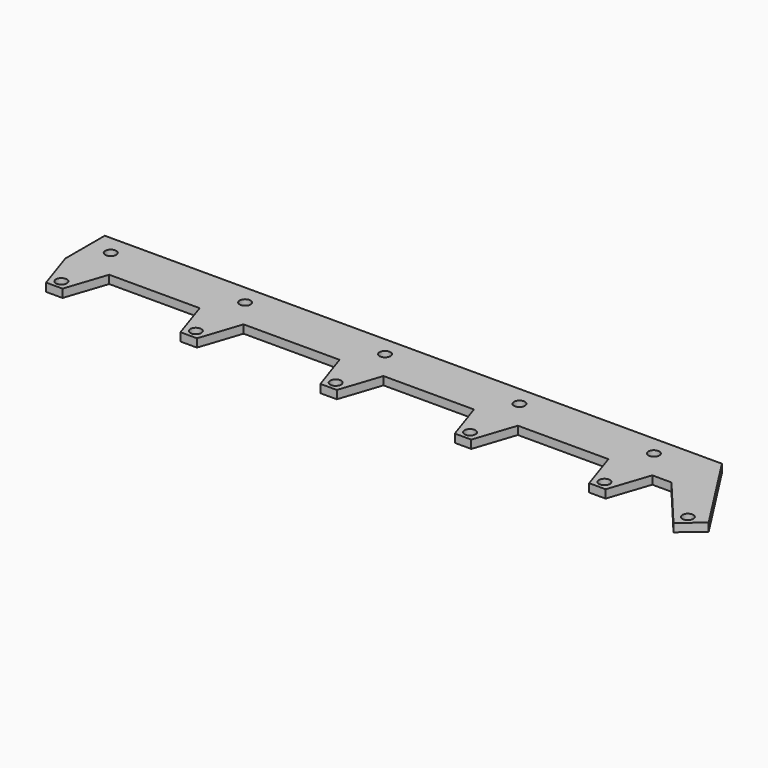
from build123d import *

# Parameters (mm, degrees)
CYLINDER007_R     = 2
CYLINDER007_DEPTH = 10
CYLINDER008_R     = 2
CYLINDER008_DEPTH = 10
CYLINDER009_R     = 2
CYLINDER009_DEPTH = 10
CYLINDER010_R     = 2
CYLINDER010_DEPTH = 10
CYLINDER006_R     = 2
CYLINDER006_DEPTH = 10
CYLINDER001_R     = 2
CYLINDER001_DEPTH = 10
CYLINDER005_R     = 2
CYLINDER005_DEPTH = 10
CYLINDER004_R     = 2
CYLINDER004_DEPTH = 10
CYLINDER003_R     = 2
CYLINDER003_DEPTH = 10
CYLINDER002_R     = 2
CYLINDER002_DEPTH = 10
CYLINDER_R        = 2
CYLINDER_DEPTH    = 10
PAD_DEPTH         = 3


with BuildPart() as cylinder007:
    # Cylinder007 → Cylinder007 (new body)
    with BuildSketch(Plane(origin=(117.5, 3.5, -3), x_dir=(1, 0, 0), z_dir=(0, 0, 1))):
        Circle(CYLINDER007_R)
    extrude(amount=CYLINDER007_DEPTH)


with BuildPart() as cylinder008:
    # Cylinder008 → Cylinder008 (new body)
    with BuildSketch(Plane(origin=(68.5, 3.5, -3), x_dir=(1, 0, 0), z_dir=(0, 0, 1))):
        Circle(CYLINDER008_R)
    extrude(amount=CYLINDER008_DEPTH)


with BuildPart() as cylinder009:
    # Cylinder009 → Cylinder009 (new body)
    with BuildSketch(Plane(origin=(17.5, 3.5, -3), x_dir=(1, 0, 0), z_dir=(0, 0, 1))):
        Circle(CYLINDER009_R)
    extrude(amount=CYLINDER009_DEPTH)


with BuildPart() as cylinder010:
    # Cylinder010 → Cylinder010 (new body)
    with BuildSketch(Plane(origin=(-31.5, 3.5, -3), x_dir=(1, 0, 0), z_dir=(0, 0, 1))):
        Circle(CYLINDER010_R)
    extrude(amount=CYLINDER010_DEPTH)


with BuildPart() as cylinder006:
    # Cylinder006 → Cylinder006 (new body)
    with BuildSketch(Plane(origin=(166.5, 3.5, -3), x_dir=(1, 0, 0), z_dir=(0, 0, 1))):
        Circle(CYLINDER006_R)
    extrude(amount=CYLINDER006_DEPTH)


with BuildPart() as cylinder001:
    # Cylinder001 → Cylinder001 (new body)
    with BuildSketch(Plane(origin=(166.5, -19, -3), x_dir=(1, 0, 0), z_dir=(0, 0, 1))):
        Circle(CYLINDER001_R)
    extrude(amount=CYLINDER001_DEPTH)


with BuildPart() as cylinder005:
    # Cylinder005 → Cylinder005 (new body)
    with BuildSketch(Plane(origin=(198.5, -21, -3), x_dir=(1, 0, 0), z_dir=(0, 0, 1))):
        Circle(CYLINDER005_R)
    extrude(amount=CYLINDER005_DEPTH)


with BuildPart() as cylinder004:
    # Cylinder004 → Cylinder004 (new body)
    with BuildSketch(Plane(origin=(-31.5, -19, -3), x_dir=(1, 0, 0), z_dir=(0, 0, 1))):
        Circle(CYLINDER004_R)
    extrude(amount=CYLINDER004_DEPTH)


with BuildPart() as cylinder003:
    # Cylinder003 → Cylinder003 (new body)
    with BuildSketch(Plane(origin=(68.5, -19, -3), x_dir=(1, 0, 0), z_dir=(0, 0, 1))):
        Circle(CYLINDER003_R)
    extrude(amount=CYLINDER003_DEPTH)


with BuildPart() as cylinder002:
    # Cylinder002 → Cylinder002 (new body)
    with BuildSketch(Plane(origin=(117.5, -19, -3), x_dir=(1, 0, 0), z_dir=(0, 0, 1))):
        Circle(CYLINDER002_R)
    extrude(amount=CYLINDER002_DEPTH)


with BuildPart() as cylinder:
    # Cylinder → Cylinder (new body)
    with BuildSketch(Plane(origin=(17.5, -19, -3), x_dir=(1, 0, 0), z_dir=(0, 0, 1))):
        Circle(CYLINDER_R)
    extrude(amount=CYLINDER_DEPTH)


with BuildPart() as cut010:
    # Sketch → Pad (new body)
    with BuildSketch(Plane.XY):
        Polygon((-39.423556, 10.687065), (185.576444, 10.687065), (205.306578, -20.03617), (197.646134, -26.464046), (181.576444, -7.312935), (174.576444, -7.312935), (169.576444, -22.312935), (163.576444, -22.312935), (158.576444, -7.312935), (125.576444, -7.312935), (120.576444, -22.312935), (114.576444, -22.312935), (109.576444, -7.312935), (76.576444, -7.312935), (71.576444, -22.312935), (65.576444, -22.312935), (60.576444, -7.312935), (25.576444, -7.312935), (20.576444, -22.312935), (14.576444, -22.312935), (9.576444, -7.312935), (-23.423556, -7.312935), (-28.423556, -22.312935), (-34.423556, -22.312935), (-39.423556, -7.312935), align=None)
    extrude(amount=PAD_DEPTH)

    # Cut: cut Cylinder
    add(cylinder.part, mode=Mode.SUBTRACT)

    # Cut001: cut Cylinder002
    add(cylinder002.part, mode=Mode.SUBTRACT)

    # Cut002: cut Cylinder003
    add(cylinder003.part, mode=Mode.SUBTRACT)

    # Cut003: cut Cylinder004
    add(cylinder004.part, mode=Mode.SUBTRACT)

    # Cut004: cut Cylinder005
    add(cylinder005.part, mode=Mode.SUBTRACT)

    # Cut005: cut Cylinder001
    add(cylinder001.part, mode=Mode.SUBTRACT)

    # Cut006: cut Cylinder006
    add(cylinder006.part, mode=Mode.SUBTRACT)

    # Cut007: cut Cylinder010
    add(cylinder010.part, mode=Mode.SUBTRACT)

    # Cut008: cut Cylinder009
    add(cylinder009.part, mode=Mode.SUBTRACT)

    # Cut009: cut Cylinder008
    add(cylinder008.part, mode=Mode.SUBTRACT)

    # Cut010: cut Cylinder007
    add(cylinder007.part, mode=Mode.SUBTRACT)


solid = cut010.part
